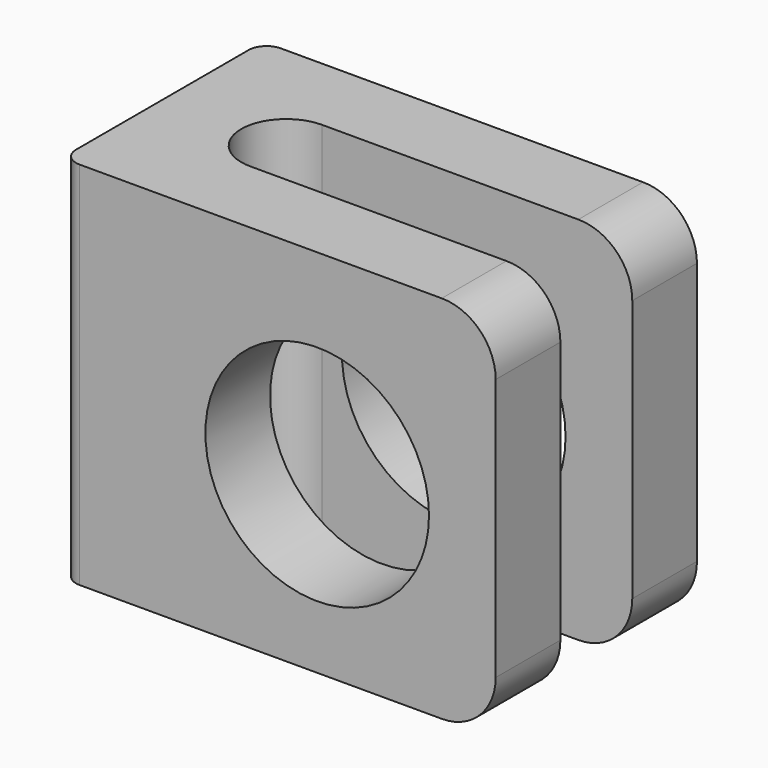
from build123d import *

# Parameters (mm, degrees)
F1_DEPTH = 70
F2_R     = 5
F3_W     = 36.3545330494
F3_H     = 25
F4_DEPTH = 102.9998127055
F5_R     = 31.1092179588
F6_DEPTH = 70.001


with BuildPart() as f1:
    # F0 (on Front) → F1 (new body)
    with BuildSketch(Plane.XZ):
        with BuildLine():
            Line((34.6660999328, 54.3679218974), (-71.0870698094, 54.3679218974))
            Line((-71.0870698094, 54.3679218974), (-71.0870698094, -48.6308908081))
            Line((-71.0870698094, -48.6308908081), (34.6660999328, -48.6308908081))
            ThreePointArc((34.6660999328, -48.6308908081), (45.2727016506, -44.2374925259), (49.6660999328, -33.6308908081))
            Line((49.6660999328, -33.6308908081), (49.6660999328, 39.3679218974))
            ThreePointArc((49.6660999328, 39.3679218974), (45.2727016506, 49.9745236152), (34.6660999328, 54.3679218974))
        make_face()
    extrude(amount=-F1_DEPTH)

    # F2
    f2_edges = [f1.edges().sort_by_distance(p)[0] for p in [
        (-71.08707, 0, 2.868516),
        (-71.08707, 70, 2.868516),
    ]]
    fillet(f2_edges, radius=F2_R)

    # F3 (on face) → F4 (cut, through all)
    with BuildSketch(Plane.XY.offset(54.3679218974)):
        with BuildLine():
            Line((34.6660999328, 47.5), (-36.6232544184, 47.5))
            ThreePointArc((-36.6232544184, 47.5), (-49.1232544184, 35), (-36.6232544184, 22.5))
            Line((-36.6232544184, 22.5), (34.6660999328, 22.5))
            Line((34.6660999328, 22.5), (34.6660999328, 47.5))
        make_face()
        with Locations((52.8433664575, 35)):
            Rectangle(F3_W, F3_H)
    extrude(amount=-F4_DEPTH, mode=Mode.SUBTRACT)

    # F5 (on face) → F6 (cut, through all)
    with BuildSketch(Plane.XZ):
        Circle(F5_R)
    extrude(amount=-F6_DEPTH, mode=Mode.SUBTRACT)


solid = f1.part
